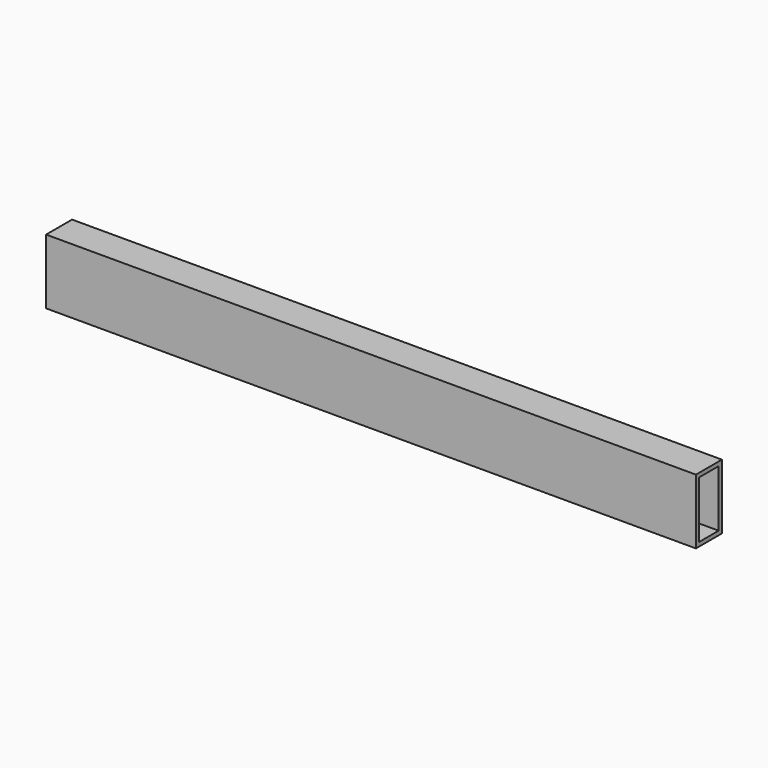
from build123d import *

# Parameters (mm, degrees)
F0_W     = 50.8
F0_H     = 101.6
F0_W_2   = 38.1
F0_H_2   = 88.9
F1_DEPTH = 812.8
F2_DEPTH = 1016
F3_DEPTH = 1016


with BuildPart() as f1:
    # F0 (on Right) → F1 (new body)
    with BuildSketch(Plane.YZ):
        with Locations((-25.4, 50.8)):
            Rectangle(F0_W, F0_H)
        with Locations((-25.4, 50.8)):
            Rectangle(F0_W_2, F0_H_2, mode=Mode.SUBTRACT)
    extrude(amount=F1_DEPTH)


with BuildPart() as f2:
    # F0 (on Right) → F2 (new body)
    with BuildSketch(Plane.YZ):
        with Locations((-25.4, 50.8)):
            Rectangle(F0_W, F0_H)
        with Locations((-25.4, 50.8)):
            Rectangle(F0_W_2, F0_H_2, mode=Mode.SUBTRACT)
    extrude(amount=F2_DEPTH)


with BuildPart() as f3:
    # F0 (on Right) → F3 (new body)
    with BuildSketch(Plane.YZ):
        with Locations((-25.4, 50.8)):
            Rectangle(F0_W, F0_H)
        with Locations((-25.4, 50.8)):
            Rectangle(F0_W_2, F0_H_2, mode=Mode.SUBTRACT)
    extrude(amount=F3_DEPTH)


solid = Compound([f1.part, f2.part, f3.part])
